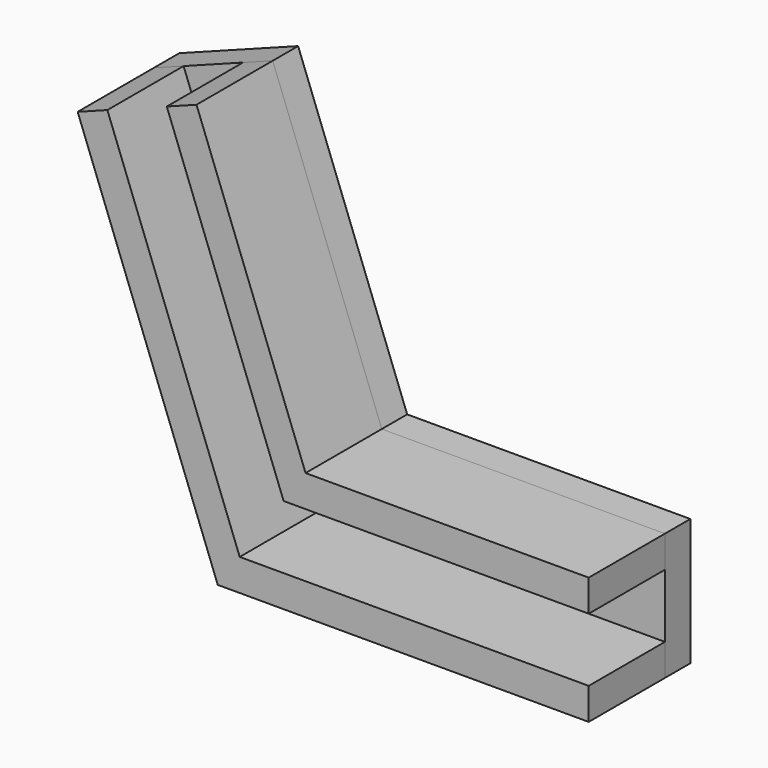
from build123d import *

# Parameters (mm, degrees)
F2_DEPTH = 19.05
F4_DEPTH = 19.05
F5_DEPTH = 6.35


with BuildPart() as f2:
    # F1 (on Front) → F2 (new body)
    with BuildSketch(Plane.XZ):
        Polygon((-27.748478, 16.974805), (-4.389427, -44.869918), (56.619957, -44.869918), (56.619957, -38.519918), (0, -38.519918), (-21.808087, 19.21852), align=None)
    extrude(amount=F2_DEPTH)


with BuildPart() as f4:
    # F3 (on Front) → F4 (new body)
    with BuildSketch(Plane.XZ):
        Polygon((56.619957, -57.569919), (-13.168281, -57.569919), (-39.629261, 12.487376), (-45.56965, 10.243662), (-17.557707, -63.919917), (56.619957, -63.919917), align=None)
    extrude(amount=F4_DEPTH)


with BuildPart() as f5:
    # F0 (on Front) → F5 (new body)
    with BuildSketch(Plane.XZ):
        Polygon((0, -38.519919), (-21.808088, 19.218519), (-45.569652, 10.243661), (-17.557708, -63.919919), (56.619957, -63.919919), (56.619957, -38.519919), align=None)
    extrude(amount=-F5_DEPTH)


solid = Compound([f2.part, f4.part, f5.part])
